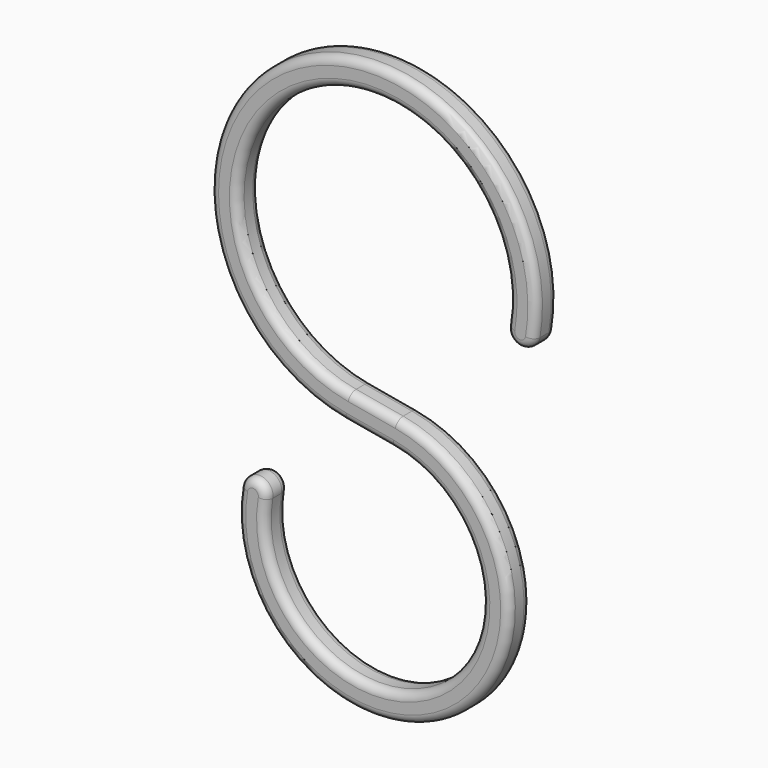
from build123d import *

# Parameters (mm, degrees)
F1_DEPTH = 4
F2_R     = 1.2


with BuildPart() as f1:
    # F0 (on Front) → F1 (new body)
    with BuildSketch(Plane.XZ):
        with BuildLine():
            ThreePointArc((-3.472964, -19.696155), (-11.471529, 16.383041), (19.696155, -3.472964))
            ThreePointArc((19.696155, -3.472964), (21.318474, -5.789875), (23.635386, -4.167556))
            ThreePointArc((23.635386, -4.167556), (-13.765834, 19.659649), (-4.167556, -23.635386))
            Line((-4.167556, -23.635386), (2.778371, -24.86014))
            ThreePointArc((2.778371, -24.86014), (9.177223, -53.723497), (-15.756924, -37.838694))
            ThreePointArc((-15.756924, -37.838694), (-17.379243, -35.521782), (-19.696155, -37.144101))
            ThreePointArc((-19.696155, -37.144101), (11.471529, -57.000105), (3.472964, -20.920909))
            Line((3.472964, -20.920909), (-3.472964, -19.696155))
        make_face()
    extrude(amount=F1_DEPTH)

    # F2
    f2_edges = [f1.edges().sort_by_distance(p)[0] for p in [
        (11.471529, -4, -57.000105),
        (11.471529, 0, -57.000105),
    ]]
    fillet(f2_edges, radius=F2_R)


solid = f1.part
